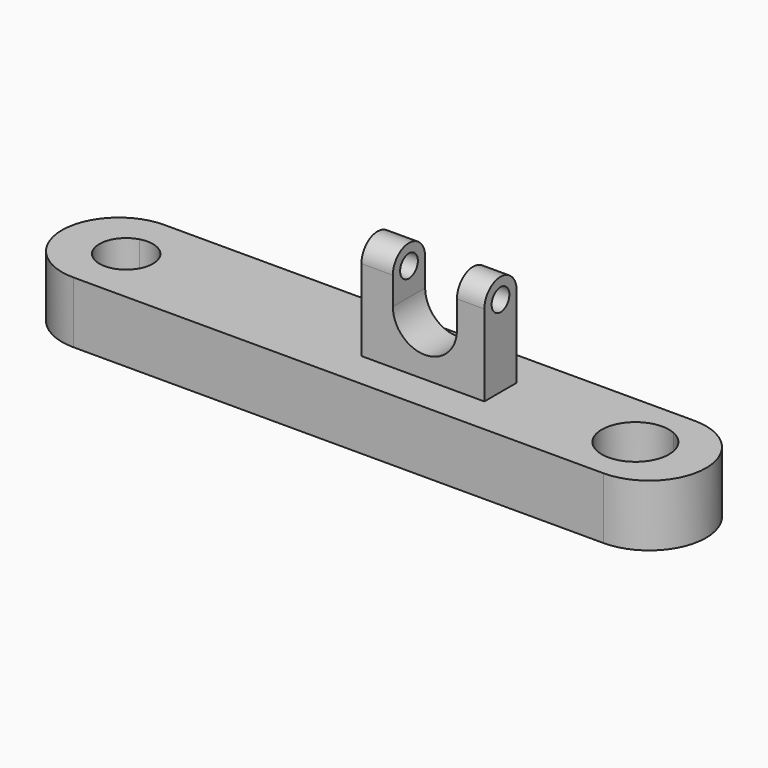
from build123d import *

# Parameters (mm, degrees)
F1_DEPTH = 12.7
F3_DEPTH = 25.4
F4_W     = 13.24638
F4_H     = 9.920692
F5_DEPTH = 15.927161


with BuildPart() as f1:
    # F0 (on Top) → F1 (new body)
    with BuildSketch(Plane.XY):
        with BuildLine():
            Line((-53.466398, -11.755024), (56.120757, -11.755024))
            Line((56.120757, -11.755024), (56.120757, -6.333794))
            ThreePointArc((56.120757, -6.333794), (46.333815, 0), (56.120757, 6.333794))
            Line((56.120757, 6.333794), (56.120757, 11.755024))
            Line((56.120757, 11.755024), (-53.466398, 11.755024))
            Line((-53.466398, 11.755024), (-53.466398, 5.315492))
            ThreePointArc((-53.466398, 5.315492), (-48.620146, 4.412441), (-46.421961, 0))
            ThreePointArc((-46.421961, 0), (-48.620146, -4.412441), (-53.466398, -5.315492))
            Line((-53.466398, -5.315492), (-53.466398, -11.755024))
        make_face()
        with BuildLine():
            Line((56.120757, -6.333794), (56.120757, -11.755024))
            ThreePointArc((56.120757, -11.755024), (67.875781, 0), (56.120757, 11.755024))
            Line((56.120757, 11.755024), (56.120757, 6.333794))
            ThreePointArc((56.120757, 6.333794), (59.105633, 3.772233), (60.219784, 0))
            ThreePointArc((60.219784, 0), (59.105633, -3.772233), (56.120757, -6.333794))
        make_face()
        with BuildLine():
            ThreePointArc((-53.466398, 11.755024), (-65.221422, 0), (-53.466398, -11.755024))
            Line((-53.466398, -11.755024), (-53.466398, -5.315492))
            ThreePointArc((-53.466398, -5.315492), (-57.477287, 0), (-53.466398, 5.315492))
            Line((-53.466398, 5.315492), (-53.466398, 11.755024))
        make_face()
    extrude(amount=F1_DEPTH)

    # F2 (on Right) → F3 (join)
    with BuildSketch(Plane.YZ):
        with BuildLine():
            Line((-4.171137, 29.520769), (-4.171137, 11.186233))
            Line((-4.171137, 11.186233), (4.171137, 11.186233))
            Line((4.171137, 11.186233), (4.171137, 29.520769))
            ThreePointArc((4.171137, 29.520769), (0, 25.349631), (-4.171137, 29.520769))
        make_face()
        with BuildLine():
            ThreePointArc((4.171137, 29.520769), (0, 33.691906), (-4.171137, 29.520769))
            Line((-4.171137, 29.520769), (-2.292054, 29.520769))
            ThreePointArc((-2.292054, 29.520769), (0, 31.812823), (2.292054, 29.520769))
            Line((2.292054, 29.520769), (4.171137, 29.520769))
        make_face()
        with BuildLine():
            Line((-2.292054, 29.520769), (-4.171137, 29.520769))
            ThreePointArc((-4.171137, 29.520769), (0, 25.349631), (4.171137, 29.520769))
            Line((4.171137, 29.520769), (2.292054, 29.520769))
            ThreePointArc((2.292054, 29.520769), (0, 27.228715), (-2.292054, 29.520769))
        make_face()
    extrude(amount=F3_DEPTH)

    # F4 (on face) → F5 (cut, through all)
    with BuildSketch(Plane.XZ.offset(4.171137)):
        with Locations((13.116183, 28.764711)):
            Rectangle(F4_W, F4_H)
        with BuildLine():
            Line((19.739373, 23.804365), (6.492993, 23.804365))
            ThreePointArc((6.492993, 23.804365), (13.116183, 17.181175), (19.739373, 23.804365))
        make_face()
    extrude(amount=-F5_DEPTH, mode=Mode.SUBTRACT)


solid = f1.part
